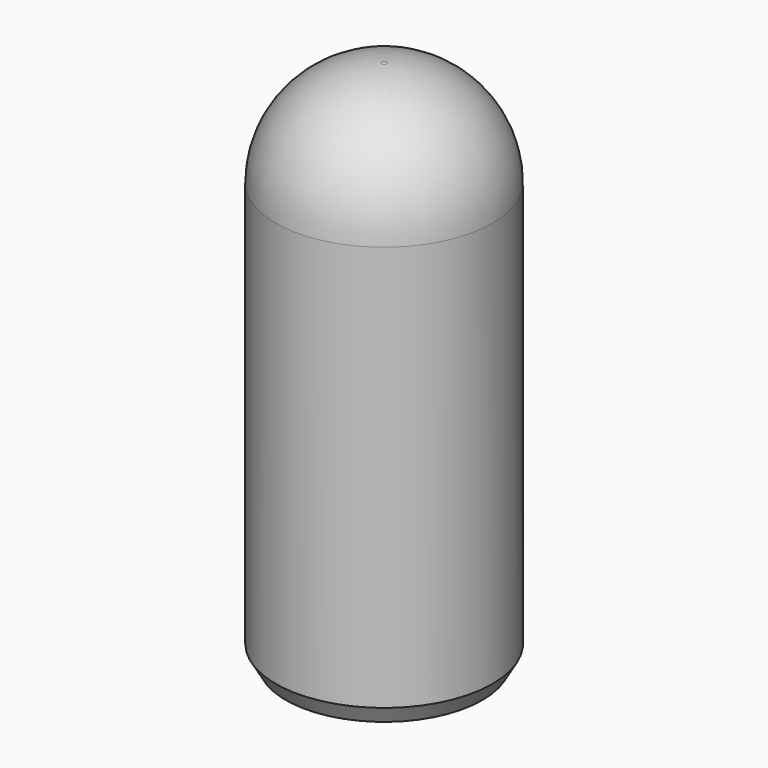
from build123d import *

# Parameters (mm, degrees)
F0_R     = 6.15
F1_DEPTH = 30
F2_R     = 6
F3_SIZE2 = 0.57735
F3_SIZE  = 1


with BuildPart() as f1:
    # F0 (on Top) → F1 (new body)
    with BuildSketch(Plane.XY):
        Circle(F0_R)
    extrude(amount=F1_DEPTH)

    # F2
    f2_edges = [f1.edges().sort_by_distance(p)[0] for p in [
        (-6.15, 0, 30),
    ]]
    fillet(f2_edges, radius=F2_R)

    # F3
    f3_edges = [f1.edges().sort_by_distance(p)[0] for p in [
        (-6.15, 0, 0),
    ]]
    chamfer(f3_edges, length=F3_SIZE, length2=F3_SIZE2)


solid = f1.part
